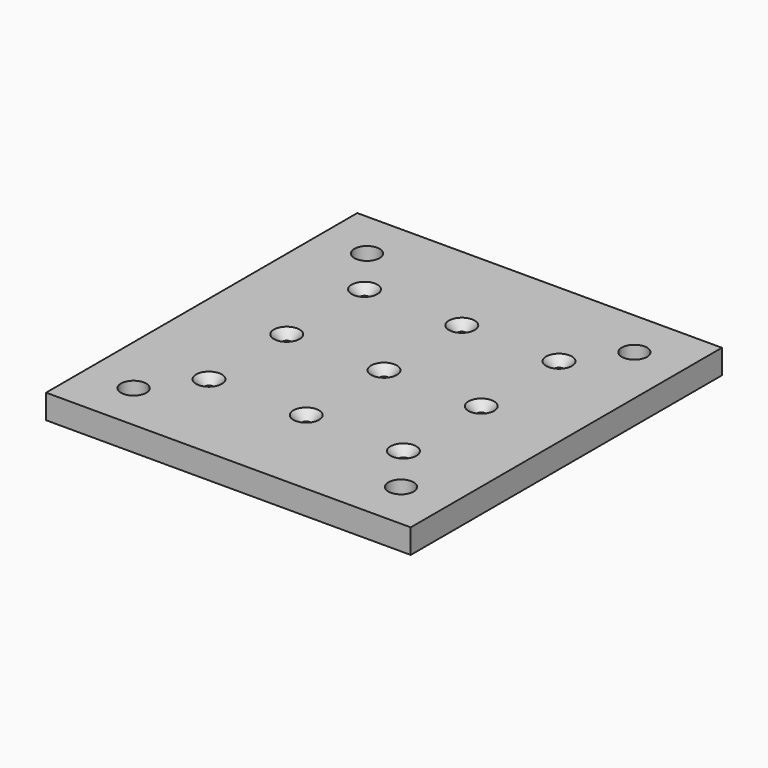
from build123d import *

# Parameters (mm, degrees)
F1_DEPTH       = 6.35
F2_D           = 6.6
F2_DEPTH       = 12.7
F2_TIP         = 1.9828400428
F3_D           = 2.5
F3_DEPTH       = 12.7014
F3_CSINK_D     = 6.72
F3_CSINK_ANGLE = 90
F3_TIP         = 0.7510757738


with BuildPart() as f1:
    # F0 (on Top) → F1 (new body)
    with BuildSketch(Plane.XY):
        Polygon((-32.8152788184, 50.8), (-128.0652788184, 50.8), (-128.0652788184, -50.8), (-96.3170453906, -50.8), (-32.8152788184, -50.8), align=None)
    extrude(amount=-F1_DEPTH)

    # F2
    with Locations(Plane.XY):
        with Locations((-115.3652788184, 38.1), (-45.5152788184, 38.1), (-45.5152788184, -38.1), (-115.3652788184, -38.1)):
            Hole(F2_D / 2, depth=F2_DEPTH)
            with Locations((0, 0, -(F2_DEPTH + F2_TIP / 2))):  # 118° drill point
                Cone(0, F2_D / 2, F2_TIP, mode=Mode.SUBTRACT)

    # F3
    with Locations(Plane.XY):
        with Locations((-105.8402788184, 25.4), (-80.4402788184, 25.4), (-55.0402788184, 25.4), (-80.4402788184, 0), (-55.0402788184, 0), (-105.8402788184, 0), (-105.8402788184, -25.4), (-80.4402788184, -25.4), (-55.0402788184, -25.4)):
            CounterSinkHole(F3_D / 2, F3_CSINK_D / 2, depth=F3_DEPTH, counter_sink_angle=F3_CSINK_ANGLE)
            with Locations((0, 0, -(F3_DEPTH + F3_TIP / 2))):  # 118° drill point
                Cone(0, F3_D / 2, F3_TIP, mode=Mode.SUBTRACT)


solid = f1.part
